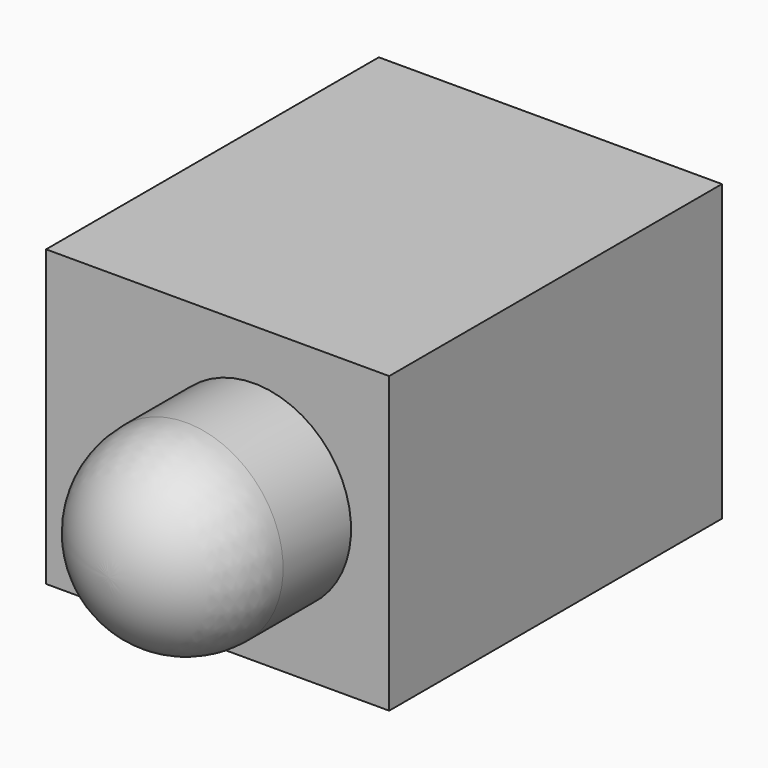
from build123d import *

# Parameters (mm, degrees)
F1_W     = 5.0292
F1_H     = 6.096
F2_DEPTH = 4.318
F5_W     = 2.0066
F5_H     = 2.3876
F6_DEPTH = 0.0508


with BuildPart() as f2:
    # F1 (on Top) → F2 (new body)
    with BuildSketch(Plane.XY):
        with Locations((2.5146, 3.048)):
            Rectangle(F1_W, F1_H)
    extrude(amount=F2_DEPTH)


with BuildPart() as f4:
    # F3 (on offset) → F4 (revolve)
    with BuildSketch(Plane.XY.offset(2.159)):
        with BuildLine():
            Line((3.048, -2.667), (3.048, 0))
            Line((3.048, 0), (1.6256, 0))
            Line((1.6256, 0), (1.6256, -1.2446))
            ThreePointArc((1.6256, -1.2446), (2.042211, -2.250389), (3.048, -2.667))
        make_face()
    revolve(axis=Axis((3.048, -4.770952, 2.159), (0, -1, 0)))


with BuildPart() as f6:
    # F5 (on face) → F6 (new body)
    with BuildSketch(Plane(origin=(0, 0, 0), x_dir=(0, -1, 0), z_dir=(-1, 0, 0))):
        with Locations((-1.4478, 2.159)):
            Rectangle(F5_W, F5_H)
        with Locations((-4.6482, 2.159)):
            Rectangle(F5_W, F5_H)
    extrude(amount=F6_DEPTH)


solid = Compound([f2.part, f4.part, f6.part])
